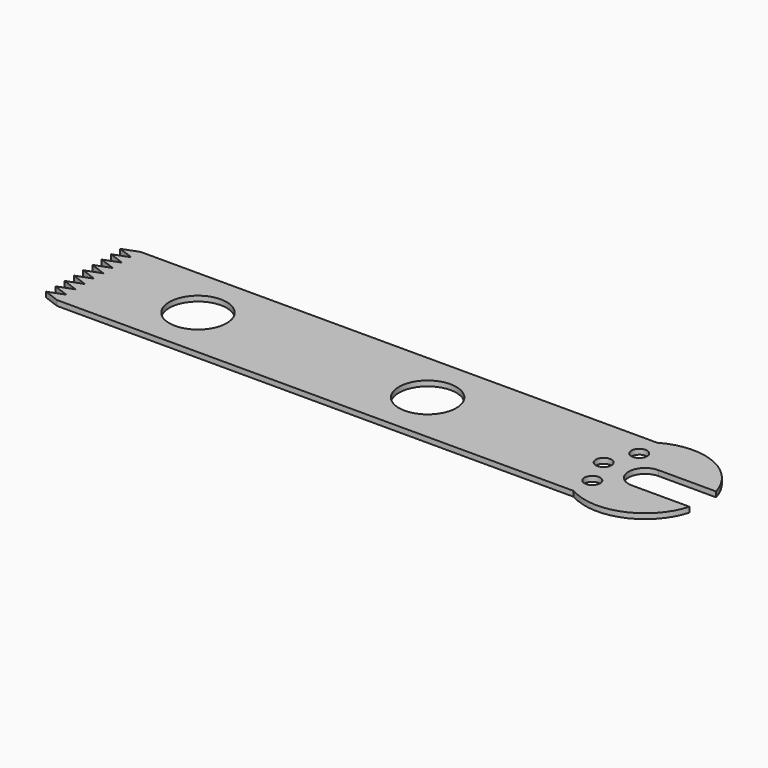
from build123d import *

# Parameters (mm, degrees)
F0_R     = 1.5
F0_R_2   = 5.5
F1_DEPTH = 1


with BuildPart() as f1:
    # F0 (on Top) → F1 (new body)
    with BuildSketch(Plane.XY):
        with BuildLine():
            Line((-104.678908, -10), (-5.678908, -10))
            ThreePointArc((-5.678908, -10), (4.343436, -10.648219), (11.053026, -3.175))
            Line((11.053026, -3.175), (0, -3.175))
            ThreePointArc((0, -3.175), (-3.175, 0), (0, 3.175))
            Line((0, 3.175), (11.053026, 3.175))
            ThreePointArc((11.053026, 3.175), (4.343436, 10.648219), (-5.678908, 10))
            Line((-5.678908, 10), (-104.678908, 10))
            Line((-104.678908, 10), (-107.678908, 8.87))
            Line((-107.678908, 8.87), (-104.678908, 7.76))
            Line((-104.678908, 7.76), (-107.678908, 6.65))
            Line((-107.678908, 6.65), (-104.678908, 5.54))
            Line((-104.678908, 5.54), (-107.678908, 4.43))
            Line((-107.678908, 4.43), (-104.678908, 3.32))
            Line((-104.678908, 3.32), (-107.678908, 2.21))
            Line((-107.678908, 2.21), (-104.678908, 1.1))
            Line((-104.678908, 1.1), (-107.678908, -0.01))
            Line((-107.678908, -0.01), (-104.678908, -1.12))
            Line((-104.678908, -1.12), (-107.678908, -2.23))
            Line((-107.678908, -2.23), (-104.678908, -3.34))
            Line((-104.678908, -3.34), (-107.678908, -4.45))
            Line((-107.678908, -4.45), (-104.678908, -5.56))
            Line((-104.678908, -5.56), (-107.678908, -6.67))
            Line((-107.678908, -6.67), (-104.678908, -7.78))
            Line((-104.678908, -7.78), (-107.678908, -8.89))
            Line((-107.678908, -8.89), (-104.678908, -10))
        make_face()
        with Locations((-5.619359, -5.619359)):
            Circle(F0_R, mode=Mode.SUBTRACT)
        with Locations((-85.678908, 0)):
            Circle(F0_R_2, mode=Mode.SUBTRACT)
        with Locations((-41.678908, 0)):
            Circle(F0_R_2, mode=Mode.SUBTRACT)
        with Locations((-7.946974, 0)):
            Circle(F0_R, mode=Mode.SUBTRACT)
        with Locations((-5.619359, 5.619359)):
            Circle(F0_R, mode=Mode.SUBTRACT)
    extrude(amount=F1_DEPTH)


solid = f1.part
